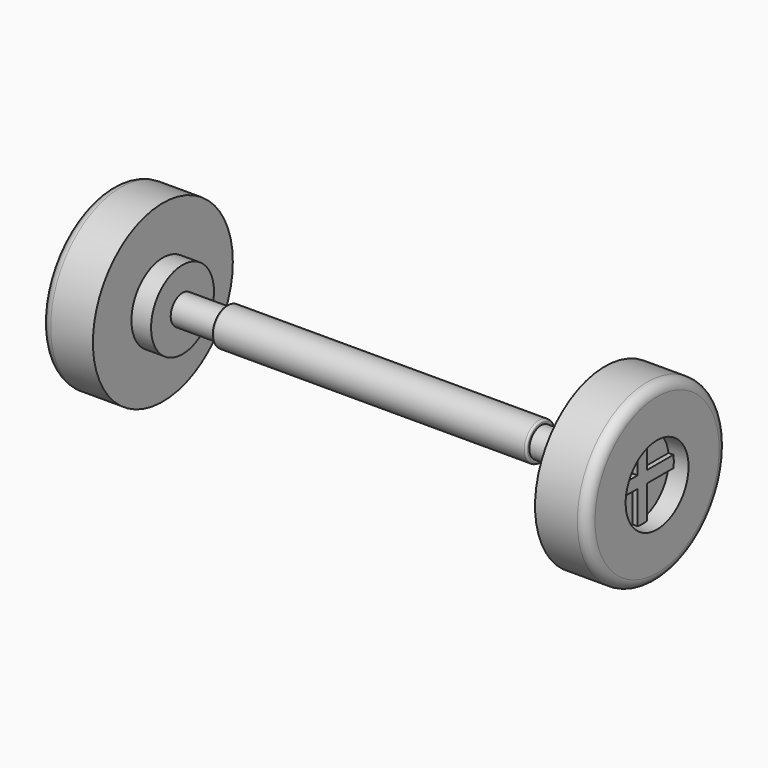
from build123d import *

# Parameters (mm, degrees)
SKETCH_R      = 8.9
PAD_DEPTH     = 3.3
SKETCH001_R   = 8.9
SKETCH001_R_2 = 4
PAD001_DEPTH  = 2
SKETCH003_R   = 4
PAD002_DEPTH  = 2
SKETCH004_R   = 1.5
PAD003_DEPTH  = 4.5
SKETCH005_R   = 1.9
PAD004_DEPTH  = 32
FILLET_R      = 1
SKETCH006_R   = 1.5
PAD005_DEPTH  = 4.5
SKETCH007_R   = 4
PAD006_DEPTH  = 2
SKETCH008_R   = 8.9
PAD007_DEPTH  = 3.3
SKETCH009_R   = 8.9
SKETCH009_R_2 = 4
PAD008_DEPTH  = 2
FILLET001_R   = 1
FILLET002_R   = 0.2
FILLET003_R   = 0.2
PAD009_DEPTH  = 0.5
PAD010_DEPTH  = 0.5


with BuildPart() as part:
    # Sketch → Pad (new body)
    with BuildSketch(Plane.YZ):
        Circle(SKETCH_R)
    extrude(amount=PAD_DEPTH)

    # Sketch001 (on Face2 of Pad) → Pad001 (join)
    with BuildSketch(Plane(origin=(0, 0, 0), x_dir=(0, 1, 0), z_dir=(-1, 0, 0))):
        Circle(SKETCH001_R)
        Circle(SKETCH001_R_2, mode=Mode.SUBTRACT)
    extrude(amount=PAD001_DEPTH)

    # Sketch003 (on Face3 of Pad001) → Pad002 (join)
    with BuildSketch(Plane.YZ.offset(3.3)):
        Circle(SKETCH003_R)
    extrude(amount=PAD002_DEPTH)

    # Sketch004 (on Face7 of Pad002) → Pad003 (join)
    with BuildSketch(Plane.YZ.offset(5.3)):
        Circle(SKETCH004_R)
    extrude(amount=PAD003_DEPTH)

    # Sketch005 (on Face10 of Pad003) → Pad004 (join)
    with BuildSketch(Plane.YZ.offset(9.8)):
        Circle(SKETCH005_R)
    extrude(amount=PAD004_DEPTH)

    # Fillet
    fillet_edges = [part.edges().sort_by_distance(p)[0] for p in [
        (-2, -8.9, 0),
    ]]
    fillet(fillet_edges, radius=FILLET_R)

    # Sketch006 (on Face13 of Fillet) → Pad005 (join)
    with BuildSketch(Plane.YZ.offset(41.8)):
        Circle(SKETCH006_R)
    extrude(amount=PAD005_DEPTH)

    # Sketch007 (on Face15 of Pad005) → Pad006 (join)
    with BuildSketch(Plane.YZ.offset(46.3)):
        Circle(SKETCH007_R)
    extrude(amount=PAD006_DEPTH)

    # Sketch008 (on Face3 of Pad006) → Pad007 (join)
    with BuildSketch(Plane.YZ.offset(48.3)):
        Circle(SKETCH008_R)
    extrude(amount=PAD007_DEPTH)

    # Sketch009 (on Face3 of Pad007) → Pad008 (join)
    with BuildSketch(Plane.YZ.offset(51.6)):
        Circle(SKETCH009_R)
        Circle(SKETCH009_R_2, mode=Mode.SUBTRACT)
    extrude(amount=PAD008_DEPTH)

    # Fillet001
    fillet001_edges = [part.edges().sort_by_distance(p)[0] for p in [
        (53.6, -8.9, 0),
    ]]
    fillet(fillet001_edges, radius=FILLET001_R)

    # Fillet002
    fillet002_edges = [part.edges().sort_by_distance(p)[0] for p in [
        (41.8, -1.9, 0),
    ]]
    fillet(fillet002_edges, radius=FILLET002_R)

    # Fillet003
    fillet003_edges = [part.edges().sort_by_distance(p)[0] for p in [
        (9.8, -1.9, 0),
    ]]
    fillet(fillet003_edges, radius=FILLET003_R)

    # Sketch010 (on Face24 of Fillet003) → Pad009 (join)
    with BuildSketch(Plane(origin=(0, 0, 0), x_dir=(0, 1, 0), z_dir=(-1, 0, 0))):
        Polygon((-0.6, 0.6), (-0.6, 4), (0.6, 4), (0.6, 0.6), (4, 0.6), (4, -0.6), (0.6, -0.6), (0.6, -4), (-0.6, -4), (-0.6, -0.6), (-4, -0.6), (-4, 0.6), align=None)
    extrude(amount=PAD009_DEPTH)

    # Sketch011 (on Face37 of Pad009) → Pad010 (join)
    with BuildSketch(Plane.YZ.offset(51.6)):
        Polygon((-0.6, -0.6), (-0.6, -4), (0.6, -4), (0.6, -0.6), (4, -0.6), (4, 0.6), (0.6, 0.6), (0.6, 4), (-0.6, 4), (-0.6, 0.6), (-4, 0.6), (-4, -0.6), align=None)
    extrude(amount=PAD010_DEPTH)


solid = part.part
